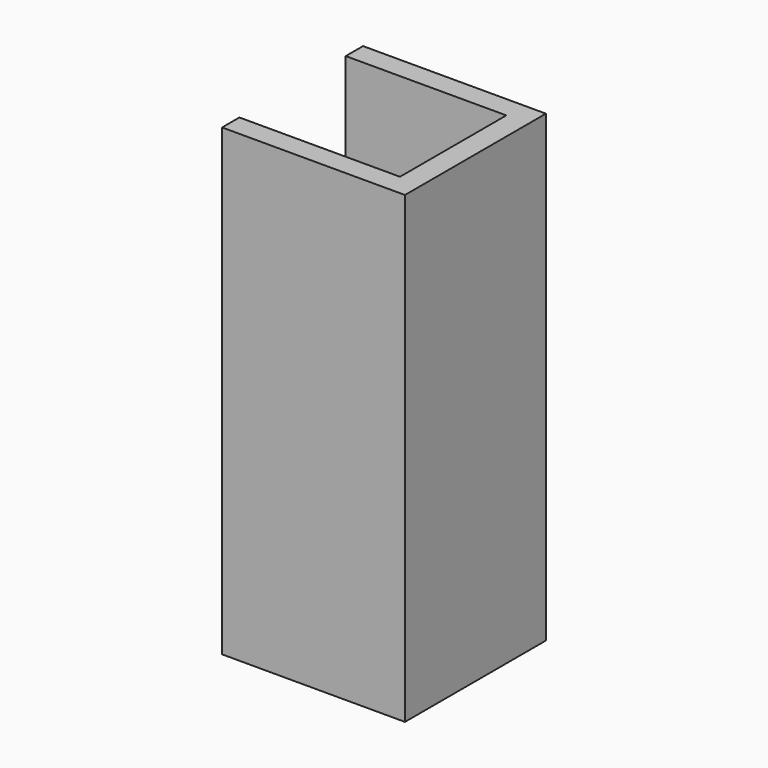
from build123d import *

# Parameters (mm, degrees)
F1_DEPTH = 2080
F2_ANGLE = 90


with BuildPart() as f1:
    # F0 (on Top) → F1 (new body)
    with BuildSketch(Plane.XY):
        Polygon((457.5724713802, 830.6974333525), (457.5724713802, 110.6974333525), (554.5724713802, 110.6974333525), (554.5724713802, 930.6974333525), (-235.4275286198, 930.6974333525), (-235.4275286198, 110.6974333525), (-138.4275286198, 110.6974333525), (-138.4275286198, 830.6974333525), align=None)
    extrude(amount=F1_DEPTH)


with BuildPart() as f1_1:
    # F2: moved
    add(f1.part.rotate(Axis((-138.4275286198, 110.6974333525, 1040), (0, 0, -1)), F2_ANGLE))


solid = f1_1.part
